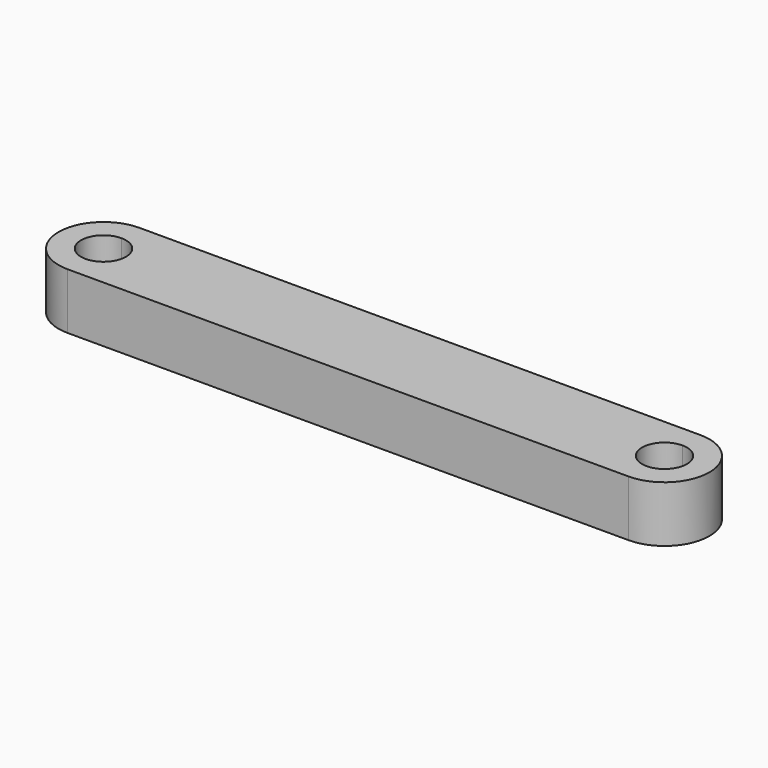
from build123d import *

# Parameters (mm, degrees)
F1_DEPTH = 3.175


with BuildPart() as f1:
    # F0 (on Top) → F1 (new body)
    with BuildSketch(Plane.XY):
        with BuildLine():
            Line((15.875, 1.27), (15.875, 2.54))
            Line((15.875, 2.54), (-15.875, 2.54))
            Line((-15.875, 2.54), (-15.875, 1.27))
            ThreePointArc((-15.875, 1.27), (-14.976974, 0.898026), (-14.605, 0))
            ThreePointArc((-14.605, 0), (-14.976974, -0.898026), (-15.875, -1.27))
            Line((-15.875, -1.27), (-15.875, -2.54))
            Line((-15.875, -2.54), (15.875, -2.54))
            Line((15.875, -2.54), (15.875, -1.27))
            ThreePointArc((15.875, -1.27), (14.605, 0), (15.875, 1.27))
        make_face()
        with BuildLine():
            ThreePointArc((15.875, -2.54), (18.415, 0), (15.875, 2.54))
            Line((15.875, 2.54), (15.875, 1.27))
            ThreePointArc((15.875, 1.27), (16.773026, 0.898026), (17.145, 0))
            ThreePointArc((17.145, 0), (16.773026, -0.898026), (15.875, -1.27))
            Line((15.875, -1.27), (15.875, -2.54))
        make_face()
        with BuildLine():
            Line((-15.875, 1.27), (-15.875, 2.54))
            ThreePointArc((-15.875, 2.54), (-18.415, 0), (-15.875, -2.54))
            Line((-15.875, -2.54), (-15.875, -1.27))
            ThreePointArc((-15.875, -1.27), (-17.145, 0), (-15.875, 1.27))
        make_face()
    extrude(amount=F1_DEPTH)


solid = f1.part
